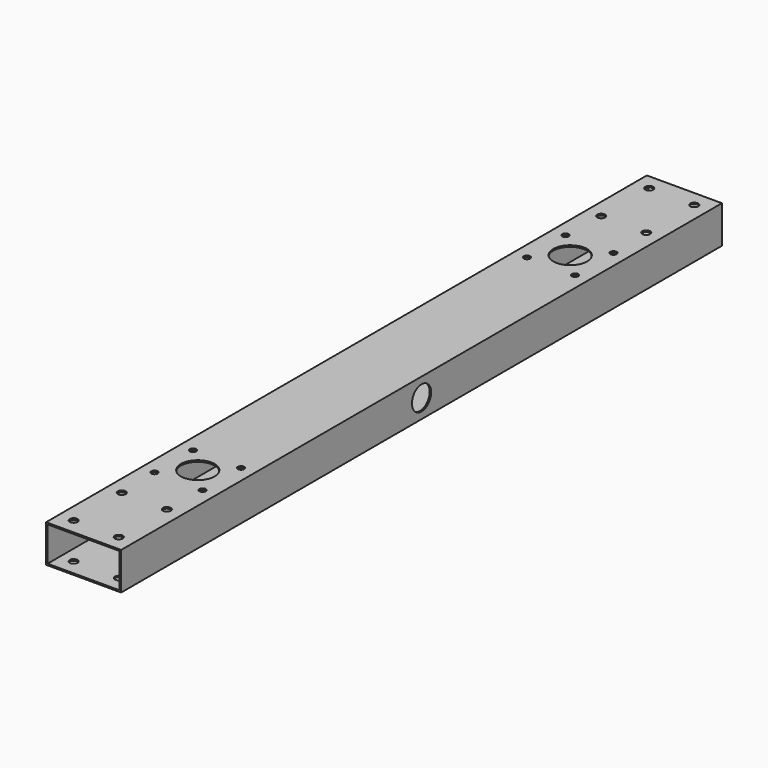
from build123d import *

# Parameters (mm, degrees)
F0_W     = 100
F0_H     = 50
F0_W_2   = 96
F0_H_2   = 46
F1_DEPTH = 1000
F2_R     = 22.5
F3_DEPTH = 50.001
F5_D     = 8.5
F6_D     = 10.5
F7_R     = 16
F8_DEPTH = 100.001


with BuildPart() as f1:
    # F0 (on Front) → F1 (new body)
    with BuildSketch(Plane.XZ):
        with Locations((50, 25)):
            Rectangle(F0_W, F0_H)
        with Locations((50, 25)):
            Rectangle(F0_W_2, F0_H_2, mode=Mode.SUBTRACT)
    extrude(amount=F1_DEPTH)

    # F2 (on face) → F3 (cut, through all)
    with BuildSketch(Plane.XY.offset(50)):
        with Locations((50, -810)):
            Circle(F2_R)
        with Locations((50, -190)):
            Circle(F2_R)
    extrude(amount=-F3_DEPTH, mode=Mode.SUBTRACT)

    # F5 (through all)
    with Locations(Plane.XY.offset(50)):
        with Locations((18, -842), (18, -778), (82, -778), (82, -842), (18, -222), (18, -158), (82, -158), (82, -222)):
            Hole(F5_D / 2)

    # F6 (through all)
    with Locations(Plane.XY.offset(50)):
        with Locations((20, -101), (20, -21), (80, -21), (80, -101), (20, -899), (20, -979), (80, -979), (80, -899)):
            Hole(F6_D / 2)

    # F7 (on face) → F8 (cut, through all)
    with BuildSketch(Plane.YZ.offset(100)):
        with Locations((-500, 25)):
            Circle(F7_R)
    extrude(amount=-F8_DEPTH, mode=Mode.SUBTRACT)


solid = f1.part
